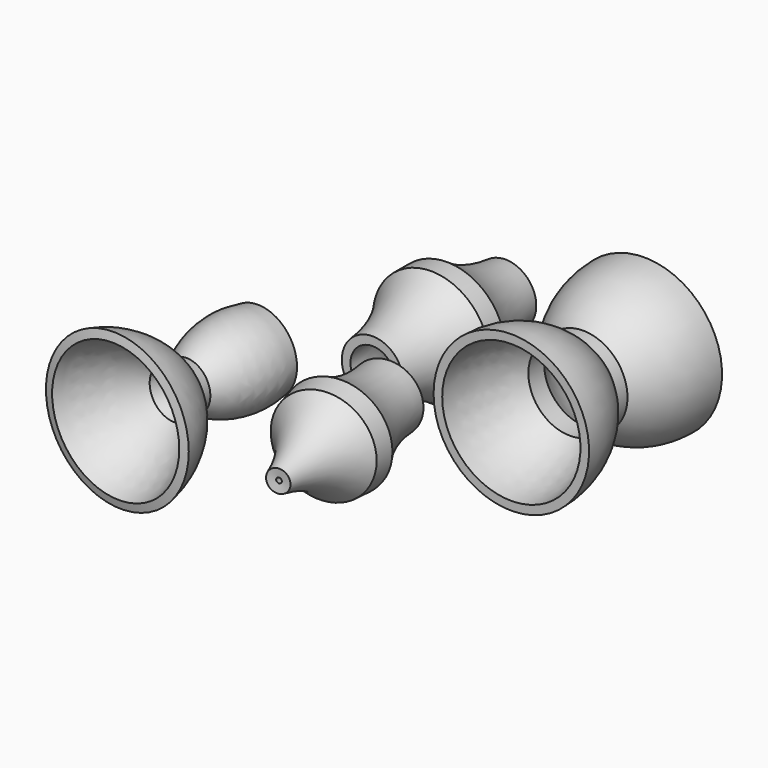
from build123d import *


with BuildPart() as f1:
    # F0 (on Top) → F1 (revolve)
    with BuildSketch(Plane.XY):
        with BuildLine():
            ThreePointArc((-41.046478, 60.038131), (-46.219344, 37.085435), (-57.465069, 16.418591))
            Line((-57.465069, 16.418591), (-57.465069, 4.656019))
            ThreePointArc((-57.465069, 4.656019), (-46.219344, -16.010825), (-41.046478, -38.963521))
            Line((-41.046478, -38.963521), (-35.900354, -38.963521))
            ThreePointArc((-35.900354, -38.963521), (-41.031175, -14.090123), (-55.806518, 6.566608))
            Line((-55.806518, 6.566608), (-55.806518, 14.508002))
            ThreePointArc((-55.806518, 14.508002), (-41.031175, 35.164732), (-35.900354, 60.038131))
            Line((-35.900354, 60.038131), (-41.046478, 60.038131))
        make_face()
    revolve(axis=Axis((-22.73293, 8.333541, 0), (0, 1, 0)))


with BuildPart() as f2:
    # F0 (on Top) → F2 (revolve)
    with BuildSketch(Plane.XY):
        with BuildLine():
            Line((13.600476, -38.963521), (18.7466, -38.963521))
            ThreePointArc((18.7466, -38.963521), (23.919466, -16.010825), (35.165191, 4.656019))
            Line((35.165191, 4.656019), (35.165191, 16.418591))
            ThreePointArc((35.165191, 16.418591), (23.919466, 37.085435), (18.7466, 60.038131))
            Line((18.7466, 60.038131), (13.600476, 60.038131))
            ThreePointArc((13.600476, 60.038131), (18.731297, 35.164732), (33.506639, 14.508002))
            Line((33.506639, 14.508002), (33.506639, 6.566608))
            ThreePointArc((33.506639, 6.566608), (18.731297, -14.090123), (13.600476, -38.963521))
        make_face()
    revolve(axis=Axis((59.915606, 8.209296, 0), (0, -1, 0)))


with BuildPart() as f3:
    # F0 (on Top) → F3 (revolve)
    with BuildSketch(Plane.XY):
        with BuildLine():
            ThreePointArc((18.7466, -151.905168), (23.919466, -128.952472), (35.165191, -108.285628))
            Line((35.165191, -108.285628), (35.165191, -96.523056))
            ThreePointArc((35.165191, -96.523056), (23.919466, -75.856212), (18.7466, -52.903516))
            Line((18.7466, -52.903516), (13.600476, -52.903516))
            ThreePointArc((13.600476, -52.903516), (18.731297, -77.776915), (33.506639, -98.433645))
            Line((33.506639, -98.433645), (33.506639, -106.375039))
            ThreePointArc((33.506639, -106.375039), (18.731297, -127.031769), (13.600476, -151.905168))
            Line((13.600476, -151.905168), (18.7466, -151.905168))
        make_face()
    revolve(axis=Axis((2.42297, -80.445108, 0), (-0.13349, 0.99105, 0)))


with BuildPart() as f4:
    # F0 (on Top) → F4 (revolve)
    with BuildSketch(Plane.XY):
        with BuildLine():
            Line((-64.991219, -113.348336), (-66.110056, -105.486153))
            ThreePointArc((-66.110056, -105.486153), (-54.392346, -82.953808), (-52.817034, -57.60564))
            Line((-52.817034, -57.60564), (-57.911828, -58.33066))
            ThreePointArc((-57.911828, -58.33066), (-59.799368, -81.783207), (-68.021241, -103.828288))
            Line((-68.021241, -103.828288), (-66.364051, -115.473537))
            ThreePointArc((-66.364051, -115.473537), (-52.318809, -134.349871), (-43.963808, -156.344842))
            Line((-43.963808, -156.344842), (-38.869014, -155.619821))
            ThreePointArc((-38.869014, -155.619821), (-47.45299, -131.717382), (-64.991219, -113.348336))
        make_face()
    revolve(axis=Axis((-76.039724, -50.022535, 0), (-0.081673, -0.996659, 0)))


solid = Compound([f1.part, f2.part, f3.part, f4.part])
